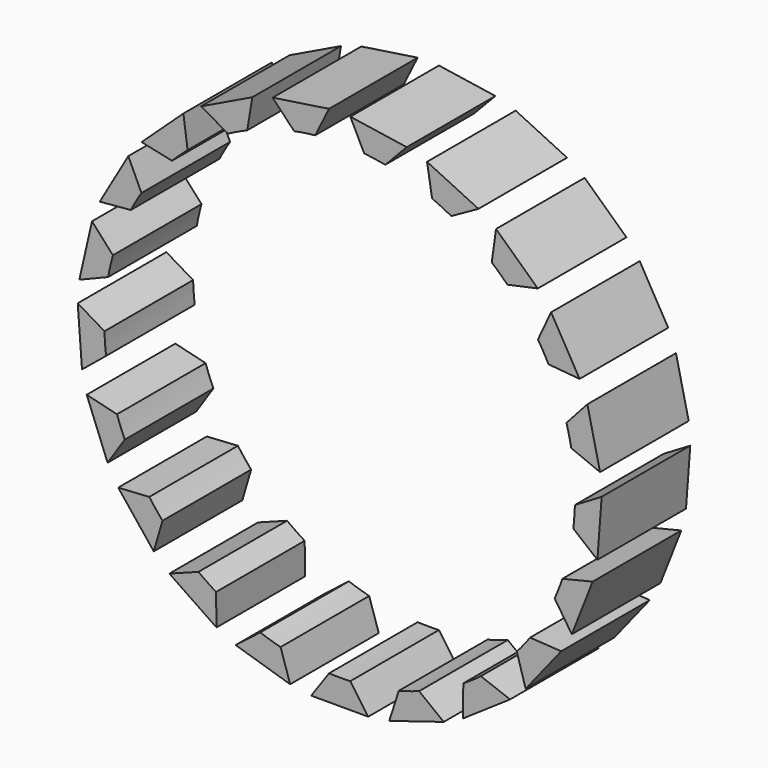
from build123d import *

# Parameters (mm, degrees)
F1_DEPTH = 5


with BuildPart() as f1:
    # F0 (on Front) → F1 (new body)
    with BuildSketch(Plane.XZ):
        with BuildLine():
            Line((44.479217, 88.422154), (46.939013, 87.663408))
            Line((46.939013, 87.663408), (46.506944, 89.000808))
            ThreePointArc((46.506944, 89.000808), (46.04507, 89.13192), (45.589594, 89.283773))
            Line((45.589594, 89.283773), (44.479217, 88.422154))
        make_face()
        with BuildLine():
            Line((41.487418, 90.288758), (43.614287, 88.838683))
            Line((43.614287, 88.838683), (43.595619, 90.244021))
            ThreePointArc((43.595619, 90.244021), (43.192911, 90.505447), (42.80243, 90.784808))
            Line((42.80243, 90.784808), (41.487418, 90.288758))
        make_face()
        with BuildLine():
            Line((39.178726, 92.954282), (40.783688, 90.941724))
            Line((40.783688, 90.941724), (41.18008, 92.290129))
            ThreePointArc((41.18008, 92.290129), (40.87232, 92.658641), (40.58153, 93.040687))
            Line((40.58153, 93.040687), (39.178726, 92.954282))
        make_face()
        with BuildLine():
            Line((37.758281, 96.181883), (38.698726, 93.785666))
            Line((38.698726, 93.785666), (39.474957, 94.957327))
            ThreePointArc((39.474957, 94.957327), (39.289491, 95.400181), (39.12423, 95.850966))
            Line((39.12423, 95.850966), (37.758281, 96.181883))
        make_face()
        with BuildLine():
            Line((37.352293, 99.684774), (37.544661, 97.117814))
            Line((37.544661, 97.117814), (38.631759, 98.008623))
            ThreePointArc((38.631759, 98.008623), (38.585066, 98.486469), (38.560018, 98.965938))
            Line((38.560018, 98.965938), (37.352293, 99.684774))
        make_face()
        with BuildLine():
            Line((38.939027, 102.108826), (37.996839, 103.151709))
            Line((37.996839, 103.151709), (37.424034, 100.64209))
            Line((37.424034, 100.64209), (38.725407, 101.172895))
            ThreePointArc((38.725407, 101.172895), (38.821636, 101.643275), (38.939027, 102.108826))
        make_face()
        with BuildLine():
            Line((40.227579, 105.000369), (39.634645, 106.274634))
            Line((39.634645, 106.274634), (38.347566, 104.045348))
            Line((38.347566, 104.045348), (39.747579, 104.168984))
            ThreePointArc((39.747579, 104.168984), (39.97818, 104.590103), (40.227579, 105.000369))
        make_face()
        with BuildLine():
            Line((47.888291, 87.520327), (50.462449, 87.520327))
            Line((50.462449, 87.520327), (49.65537, 88.670956))
            ThreePointArc((49.65537, 88.670956), (49.17537, 88.660103), (48.69537, 88.670956))
            Line((48.69537, 88.670956), (47.888291, 87.520327))
        make_face()
        with BuildLine():
            Line((51.411727, 87.663408), (53.871523, 88.422154))
            Line((53.871523, 88.422154), (52.761146, 89.283773))
            ThreePointArc((52.761146, 89.283773), (52.30567, 89.13192), (51.843796, 89.000808))
            Line((51.843796, 89.000808), (51.411727, 87.663408))
        make_face()
        with BuildLine():
            Line((54.736453, 88.838683), (56.863322, 90.288758))
            Line((56.863322, 90.288758), (55.54831, 90.784808))
            ThreePointArc((55.54831, 90.784808), (55.157829, 90.505447), (54.755121, 90.244021))
            Line((54.755121, 90.244021), (54.736453, 88.838683))
        make_face()
        with BuildLine():
            Line((57.567052, 90.941724), (59.172014, 92.954282))
            Line((59.172014, 92.954282), (57.76921, 93.040687))
            ThreePointArc((57.76921, 93.040687), (57.47842, 92.658641), (57.17066, 92.290129))
            Line((57.17066, 92.290129), (57.567052, 90.941724))
        make_face()
        with BuildLine():
            Line((59.652014, 93.785666), (60.59246, 96.181883))
            Line((60.59246, 96.181883), (59.22651, 95.850966))
            ThreePointArc((59.22651, 95.850966), (59.061249, 95.400181), (58.875783, 94.957327))
            Line((58.875783, 94.957327), (59.652014, 93.785666))
        make_face()
        with BuildLine():
            Line((60.80608, 97.117814), (60.998447, 99.684774))
            Line((60.998447, 99.684774), (59.790722, 98.965938))
            ThreePointArc((59.790722, 98.965938), (59.765674, 98.486469), (59.718981, 98.008623))
            Line((59.718981, 98.008623), (60.80608, 97.117814))
        make_face()
        with BuildLine():
            Line((59.625334, 101.172895), (60.926706, 100.64209))
            Line((60.926706, 100.64209), (60.353902, 103.151709))
            Line((60.353902, 103.151709), (59.411714, 102.108826))
            ThreePointArc((59.411714, 102.108826), (59.529105, 101.643275), (59.625334, 101.172895))
        make_face()
        with BuildLine():
            Line((58.603161, 104.168984), (60.003174, 104.045348))
            Line((60.003174, 104.045348), (58.716095, 106.274634))
            Line((58.716095, 106.274634), (58.123161, 105.000369))
            ThreePointArc((58.123161, 105.000369), (58.37256, 104.590103), (58.603161, 104.168984))
        make_face()
        with BuildLine():
            Line((56.743288, 106.730675), (58.117545, 107.025192))
            Line((58.117545, 107.025192), (56.230553, 108.776065))
            Line((56.230553, 108.776065), (56.039558, 107.383641))
            ThreePointArc((56.039558, 107.383641), (56.398805, 107.065114), (56.743288, 106.730675))
        make_face()
        with BuildLine():
            Line((54.210972, 108.63035), (55.437364, 109.316852))
            Line((55.437364, 109.316852), (53.118127, 110.433738))
            Line((53.118127, 110.433738), (53.346041, 109.046878))
            ThreePointArc((53.346041, 109.046878), (53.783215, 108.848392), (54.210972, 108.63035))
        make_face()
        with BuildLine():
            Line((51.23122, 109.699214), (52.200777, 110.716703))
            Line((52.200777, 110.716703), (49.65537, 111.100361))
            Line((49.65537, 111.100361), (50.281943, 109.842295))
            ThreePointArc((50.281943, 109.842295), (50.758199, 109.781486), (51.23122, 109.699214))
        make_face()
        with BuildLine():
            Line((42.311182, 107.383641), (42.120187, 108.776065))
            Line((42.120187, 108.776065), (40.233195, 107.025192))
            Line((40.233195, 107.025192), (41.607453, 106.730675))
            ThreePointArc((41.607453, 106.730675), (41.951936, 107.065114), (42.311182, 107.383641))
        make_face()
        with BuildLine():
            Line((45.004699, 109.046878), (45.232613, 110.433738))
            Line((45.232613, 110.433738), (42.913376, 109.316852))
            Line((42.913376, 109.316852), (44.139769, 108.63035))
            ThreePointArc((44.139769, 108.63035), (44.567525, 108.848392), (45.004699, 109.046878))
        make_face()
        with BuildLine():
            Line((48.068798, 109.842295), (48.69537, 111.100361))
            Line((48.69537, 111.100361), (46.149963, 110.716703))
            Line((46.149963, 110.716703), (47.11952, 109.699214))
            ThreePointArc((47.11952, 109.699214), (47.592541, 109.781486), (48.068798, 109.842295))
        make_face()
    extrude(amount=F1_DEPTH)


solid = f1.part
